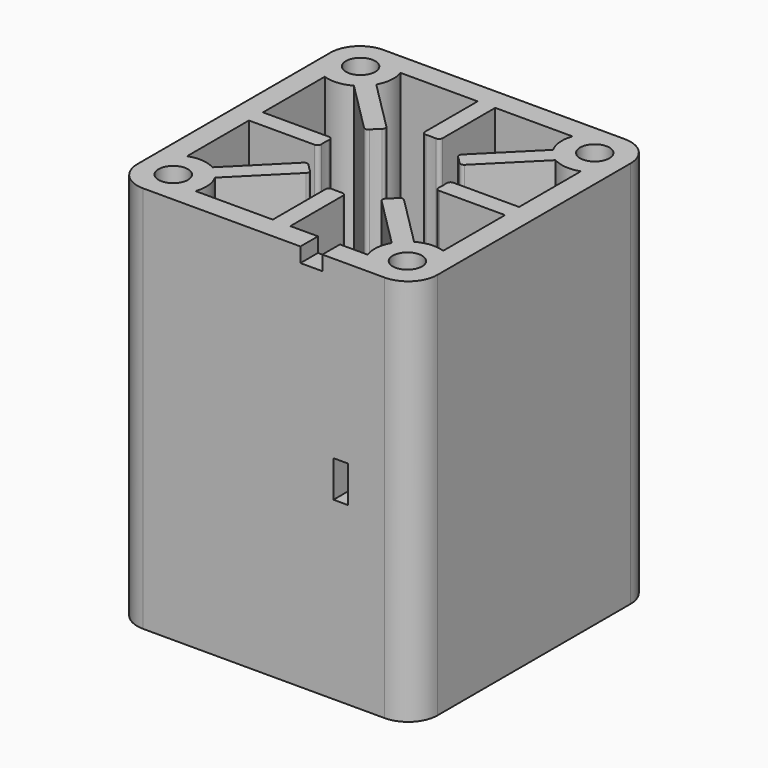
from build123d import *

# Parameters (mm, degrees)
SKETCH_W        = 41
SKETCH_H        = 41
SKETCH_R        = 2
PAD_DEPTH       = 53
SKETCH001_R     = 10
SKETCH001_R_2   = 6
PAD001_DEPTH    = 1.2
FILLET_R        = 0.5
FILLET001_R     = 4
SKETCH002_W     = 3
SKETCH002_H     = 3
POCKET_DEPTH    = 2
SKETCH003_W     = 2
SKETCH003_H     = 5
POCKET001_DEPTH = 41.001
POCKET002_DEPTH = 41.001


with BuildPart() as part:
    # Sketch → Pad (new body)
    with BuildSketch(Plane.XY):
        Rectangle(SKETCH_W, SKETCH_H)
        with Locations((-16, 16)):
            Circle(SKETCH_R, mode=Mode.SUBTRACT)
        with Locations((16, 16)):
            Circle(SKETCH_R, mode=Mode.SUBTRACT)
        with Locations((-16, -16)):
            Circle(SKETCH_R, mode=Mode.SUBTRACT)
        with Locations((16, -16)):
            Circle(SKETCH_R, mode=Mode.SUBTRACT)
        with BuildLine():
            Line((-17.5, 1.2), (-7.960057, 1.2))
            ThreePointArc((-7.960057, 1.2), (-8.05, 0), (-7.960057, -1.2))
            Line((-17.5, -1.2), (-7.960057, -1.2))
            Line((-17.5, -1.2), (-17.5, -11.757359))
            ThreePointArc((-13.781771, -12.084715), (-15.605344, -11.517339), (-17.5, -11.757359))
            Line((-6.477138, -4.780082), (-13.781771, -12.084715))
            ThreePointArc((-6.477138, -4.780082), (-5.69221, -5.69221), (-4.780082, -6.477138))
            Line((-4.780082, -6.477138), (-12.084715, -13.781771))
            ThreePointArc((-11.757359, -17.5), (-11.517339, -15.605344), (-12.084715, -13.781771))
            Line((-11.757359, -17.5), (-1.2, -17.5))
            Line((-1.2, -7.960057), (-1.2, -17.5))
            ThreePointArc((-1.2, -7.960057), (0, -8.05), (1.2, -7.960057))
            Line((1.2, -7.960057), (1.2, -17.5))
            Line((1.2, -17.5), (11.757359, -17.5))
            ThreePointArc((12.084715, -13.781771), (11.517339, -15.605344), (11.757359, -17.5))
            Line((4.780082, -6.477138), (12.084715, -13.781771))
            ThreePointArc((4.780082, -6.477138), (5.69221, -5.69221), (6.477138, -4.780082))
            Line((6.477138, -4.780082), (13.781771, -12.084715))
            ThreePointArc((17.5, -11.757359), (15.605344, -11.517339), (13.781771, -12.084715))
            Line((17.5, -1.2), (17.5, -11.757359))
            Line((7.960057, -1.2), (17.5, -1.2))
            ThreePointArc((7.960057, -1.2), (8.05, 0), (7.960057, 1.2))
            Line((7.960057, 1.2), (17.5, 1.2))
            Line((17.5, 1.2), (17.5, 11.757359))
            ThreePointArc((13.781771, 12.084715), (15.605344, 11.517339), (17.5, 11.757359))
            Line((6.477138, 4.780082), (13.781771, 12.084715))
            ThreePointArc((6.477138, 4.780082), (5.69221, 5.69221), (4.780082, 6.477138))
            Line((4.780082, 6.477138), (12.084715, 13.781771))
            ThreePointArc((11.757359, 17.5), (11.517339, 15.605344), (12.084715, 13.781771))
            Line((1.2, 17.5), (11.757359, 17.5))
            Line((1.2, 7.960057), (1.2, 17.5))
            ThreePointArc((1.2, 7.960057), (0, 8.05), (-1.2, 7.960057))
            Line((-1.2, 7.960057), (-1.2, 17.5))
            Line((-11.757359, 17.5), (-1.2, 17.5))
            ThreePointArc((-12.084715, 13.781771), (-11.517339, 15.605344), (-11.757359, 17.5))
            Line((-4.780082, 6.477138), (-12.084715, 13.781771))
            ThreePointArc((-4.780082, 6.477138), (-5.69221, 5.69221), (-6.477138, 4.780082))
            Line((-6.477138, 4.780082), (-13.781771, 12.084715))
            ThreePointArc((-17.5, 11.757359), (-15.605344, 11.517339), (-13.781771, 12.084715))
            Line((-17.5, 1.2), (-17.5, 11.757359))
        make_face(mode=Mode.SUBTRACT)
    extrude(amount=PAD_DEPTH)

    # Sketch001 → Pad001 (new body)
    with BuildSketch(Plane(origin=(0, 0, 0), x_dir=(1, 0, 0), z_dir=(0, 0, -1))):
        Circle(SKETCH001_R)
        Circle(SKETCH001_R_2, mode=Mode.SUBTRACT)
    extrude(amount=-PAD001_DEPTH)

    # Fillet
    fillet_edges = [part.edges().sort_by_distance(p)[0] for p in [
        (-6.477138, 4.780082, 27.1),
        (-4.780082, 6.477138, 27.1),
        (-1.2, 7.960057, 27.1),
        (1.2, 7.960057, 27.1),
        (4.780082, 6.477138, 27.1),
        (6.477138, 4.780082, 27.1),
        (-7.960057, 1.2, 27.1),
        (-7.960057, -1.2, 27.1),
        (-6.477138, -4.780082, 27.1),
        (-4.780082, -6.477138, 27.1),
        (-1.2, -7.960057, 27.1),
        (1.2, -7.960057, 27.1),
        (4.780082, -6.477138, 27.1),
        (6.477138, -4.780082, 27.1),
        (7.960057, -1.2, 27.1),
        (7.960057, 1.2, 27.1),
    ]]
    fillet(fillet_edges, radius=FILLET_R)

    # Fillet001
    fillet001_edges = [part.edges().sort_by_distance(p)[0] for p in [
        (-20.5, 20.5, 26.5),
        (20.5, 20.5, 26.5),
        (-20.5, -20.5, 26.5),
        (20.5, -20.5, 26.5),
    ]]
    fillet(fillet001_edges, radius=FILLET001_R)

    # Sketch002 → Pocket (cut)
    with BuildSketch(Plane.XY.offset(53)):
        with Locations((6.47868, -19)):
            Rectangle(SKETCH002_W, SKETCH002_H)
    extrude(amount=-POCKET_DEPTH, mode=Mode.SUBTRACT)

    # Sketch003 → Pocket001 (cut, through all)
    with BuildSketch(Plane(origin=(0, 20.5, 0), x_dir=(-1, 0, 0), z_dir=(0, 1, 0))):
        with Locations((-10.5, 26.5)):
            Rectangle(SKETCH003_W, SKETCH003_H)
    extrude(amount=-POCKET001_DEPTH, mode=Mode.SUBTRACT)

    # Sketch004 → Pocket002 (cut, through all)
    with BuildSketch(Plane(origin=(0, 20.5, 0), x_dir=(-1, 0, 0), z_dir=(0, 1, 0))):
        Polygon((20, 29), (22, 31), (22, 22), (20, 24), align=None)
    extrude(amount=-POCKET002_DEPTH, mode=Mode.SUBTRACT)


solid = part.part
